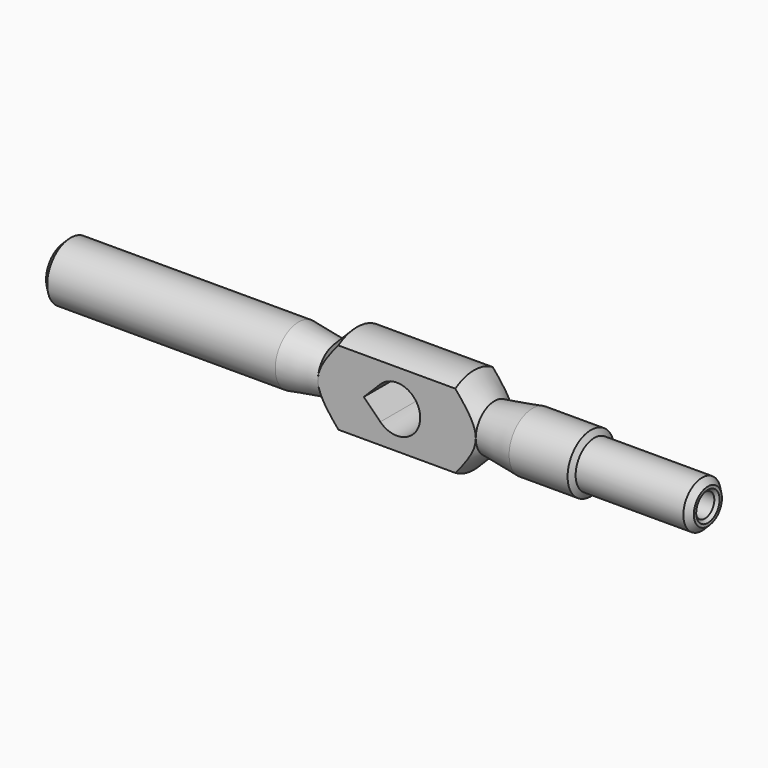
from build123d import *

# Parameters (mm, degrees)
F2_W           = 27
F2_H           = 10.543919
F3_DEPTH       = 12.5
F4_SIZE        = 1
F6_DEPTH       = 12.5
F8_D           = 4
F8_DEPTH       = 50
F8_CSINK_D     = 5
F8_CSINK_ANGLE = 90


with BuildPart() as f1:
    # F0 (on Top) → F1 (revolve)
    with BuildSketch(Plane.XY):
        Polygon((30.57735, 4), (30, 5), (20, 5), (13.5, 4), (10, 7.5), (0, 7.5), (-10, 7.5), (-13.5, 4), (-20, 5), (-60, 5), (-60, 0), (0, 0), (50, 0), (50, 4), align=None)
    revolve(axis=Axis((-30, 0, 0), (1, 0, 0)))

    # F2 (on Top) → F3 (cut, symmetric)
    with BuildSketch(Plane.XY):
        with Locations((0, 9.271959)):
            Rectangle(F2_W, F2_H)
        with Locations((0, -9.271959)):
            Rectangle(F2_W, F2_H)
    extrude(amount=F3_DEPTH, both=True, mode=Mode.SUBTRACT)

    # F4
    f4_edges = [f1.edges().sort_by_distance(p)[0] for p in [
        (-60, -5, 0),
        (50, -4, 0),
    ]]
    chamfer(f4_edges, length=F4_SIZE)

    # F5 (on face) → F6 (cut, symmetric)
    with BuildSketch(Plane.XZ.offset(4)):
        with BuildLine():
            ThreePointArc((-2.828427, -2.828427), (1.530734, -3.695518), (4, 0))
            ThreePointArc((4, 0), (1.530734, 3.695518), (-2.828427, 2.828427))
            ThreePointArc((-2.828427, 2.828427), (-4, 0), (-2.828427, -2.828427))
        make_face()
        with BuildLine():
            ThreePointArc((-2.828427, -2.828427), (-4, 0), (-2.828427, 2.828427))
            Line((-2.828427, 2.828427), (-5.656854, 0))
            Line((-5.656854, 0), (-2.828427, -2.828427))
        make_face()
    extrude(amount=F6_DEPTH, both=True, mode=Mode.SUBTRACT)

    # F8
    with Locations(Plane.YZ.offset(50)):
        with Locations((0, 0)):
            CounterSinkHole(F8_D / 2, F8_CSINK_D / 2, depth=F8_DEPTH, counter_sink_angle=F8_CSINK_ANGLE)


solid = f1.part
